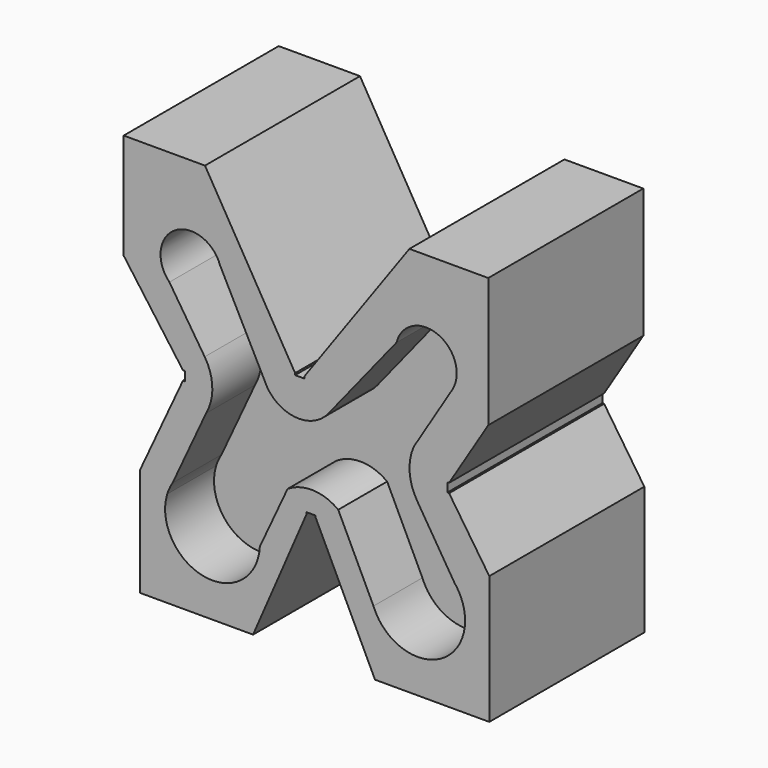
from build123d import *

# Parameters (mm, degrees)
F1_DEPTH = 40.259
F3_DEPTH = 25.4
F5_DEPTH = 25.4


with BuildPart() as f1:
    # F0 (on Front) → F1 (new body, symmetric)
    with BuildSketch(Plane.XZ):
        Polygon((0, -0.762), (0, 0), (-37.454836, 63.721383), (-71.236836, 63.721383), (-71.236836, 19.779383), (-46.608452, -14.130657), (-45.846452, -14.130657), (-45.846452, -17.940657), (-46.608452, -17.940657), (-64.46274, -56.418067), (-64.46274, -101.376067), (-17.47274, -101.376067), (4.734051, -50.098072), (4.734051, -49.336072), (8.544051, -49.336072), (8.544051, -50.098072), (33.19607, -101.376067), (80.69407, -101.376067), (80.69407, -48.036067), (63.988247, -23.151609), (63.226247, -23.151609), (63.226247, -19.341609), (63.988247, -19.341609), (80.262104, 7.029165), (80.262104, 60.877165), (47.496104, 60.877165), (3.81, 0), (3.81, -0.762), align=None)
    extrude(amount=F1_DEPTH, both=True)

    # F2 (on face) → F3 (cut)
    with BuildSketch(Plane.XZ.offset(40.259)):
        with BuildLine():
            ThreePointArc((-52.245846, 16.276482), (-38.390892, 13.469409), (-30.523199, 25.214145))
            ThreePointArc((-30.523199, 25.214145), (-30.687283, 27.249046), (-31.175296, 29.231365))
            ThreePointArc((-31.175296, 29.231365), (-49.874912, 36.032865), (-52.245846, 16.276482))
        make_face()
        with BuildLine():
            ThreePointArc((-31.175296, 29.231365), (-30.687283, 27.249046), (-30.523199, 25.214145))
            ThreePointArc((-30.523199, 25.214145), (-38.390892, 13.469409), (-52.245846, 16.276482))
            Line((-52.245846, 16.276482), (-37.573051, -6.265247))
            ThreePointArc((-37.573051, -6.265247), (-34.402313, -16.422015), (-36.996162, -26.741195))
            Line((-36.996162, -26.741195), (-50.912392, -56.731777))
            ThreePointArc((-50.912392, -56.731777), (-28.804068, -48.448298), (-14.646231, -67.34141))
            ThreePointArc((-14.646231, -67.34141), (-14.651472, -67.795631), (-14.667193, -68.249609))
            Line((-14.667193, -68.249609), (-3.134057, -43.394785))
            ThreePointArc((-3.134057, -43.394785), (7.514222, -40.45337), (17.917042, -44.17078))
            Line((17.917042, -44.17078), (32.565061, -74.639729))
            ThreePointArc((32.565061, -74.639729), (41.062727, -50.578546), (66.172654, -55.121942))
            Line((66.172654, -55.121942), (50.676871, -30.211112))
            ThreePointArc((50.676871, -30.211112), (47.597224, -20.692297), (49.331598, -10.839176))
            Line((49.331598, -10.839176), (65.190411, 14.949097))
            ThreePointArc((65.190411, 14.949097), (49.396243, 10.062519), (42.155779, 24.925563))
            Line((42.155779, 24.925563), (13.816384, -10.301067))
            ThreePointArc((13.816384, -10.301067), (0.898878, -16.153519), (-11.474751, -9.224849))
            Line((-11.474751, -9.224849), (-31.175296, 29.231365))
        make_face()
        with BuildLine():
            ThreePointArc((67.143639, 21.716436), (56.06138, 34.31298), (42.155779, 24.925563))
            ThreePointArc((42.155779, 24.925563), (49.396243, 10.062519), (65.190411, 14.949097))
            Line((65.190411, 14.949097), (65.331844, 15.179083))
            ThreePointArc((65.331844, 15.179083), (66.682311, 18.324549), (67.143639, 21.716436))
        make_face()
        with BuildLine():
            Line((-53.138839, -61.529947), (-50.912392, -56.731777))
            ThreePointArc((-50.912392, -56.731777), (-52.187514, -59.055738), (-53.138839, -61.529947))
        make_face()
        with BuildLine():
            ThreePointArc((-14.646231, -67.34141), (-28.804068, -48.448298), (-50.912392, -56.731777))
            Line((-50.912392, -56.731777), (-53.138839, -61.529947))
            ThreePointArc((-53.138839, -61.529947), (-37.718241, -86.732836), (-14.667193, -68.249609))
            ThreePointArc((-14.667193, -68.249609), (-14.651472, -67.795631), (-14.646231, -67.34141))
        make_face()
        with BuildLine():
            Line((65.331844, 15.179083), (65.190411, 14.949097))
            ThreePointArc((65.190411, 14.949097), (65.261739, 15.063714), (65.331844, 15.179083))
        make_face()
        with BuildLine():
            Line((68.871818, -59.461086), (66.172654, -55.121942))
            ThreePointArc((66.172654, -55.121942), (41.062727, -50.578546), (32.565061, -74.639729))
            ThreePointArc((32.565061, -74.639729), (54.527629, -86.95802), (70.633667, -67.601103))
            ThreePointArc((70.633667, -67.601103), (70.188163, -63.43685), (68.871818, -59.461086))
        make_face()
        with BuildLine():
            ThreePointArc((68.871818, -59.461086), (67.663637, -57.203555), (66.172654, -55.121942))
            Line((66.172654, -55.121942), (68.871818, -59.461086))
        make_face()
    extrude(amount=-F3_DEPTH, mode=Mode.SUBTRACT)

    # F4 (on face) → F5 (cut)
    with BuildSketch(Plane(origin=(0, 40.259, 0), x_dir=(-1, 0, 0), z_dir=(0, 1, 0))):
        with BuildLine():
            ThreePointArc((-65.726989, 18.3497), (-51.872034, 15.542628), (-44.004341, 27.287363))
            ThreePointArc((-44.004341, 27.287363), (-44.168425, 29.322264), (-44.656439, 31.304583))
            ThreePointArc((-44.656439, 31.304583), (-63.356054, 38.106083), (-65.726989, 18.3497))
        make_face()
        with BuildLine():
            ThreePointArc((-44.656439, 31.304583), (-44.168425, 29.322264), (-44.004341, 27.287363))
            ThreePointArc((-44.004341, 27.287363), (-51.872034, 15.542628), (-65.726989, 18.3497))
            Line((-65.726989, 18.3497), (-51.054193, -4.192029))
            ThreePointArc((-51.054193, -4.192029), (-46.106839, -17.471409), (-49.249755, -31.289525))
            Line((-49.249755, -31.289525), (-65.967989, -60.914299))
            ThreePointArc((-65.967989, -60.914299), (-43.823018, -51.54992), (-29.139468, -70.588952))
            ThreePointArc((-29.139468, -70.588952), (-29.144731, -71.044099), (-29.160516, -71.499002))
            Line((-29.160516, -71.499002), (-15.92485, -43.967853))
            ThreePointArc((-15.92485, -43.967853), (-5.553349, -41.629648), (4.695866, -44.456098))
            Line((4.695866, -44.456098), (19.922124, -74.438221))
            ThreePointArc((19.922124, -74.438221), (26.714122, -49.040464), (52.697492, -53.045686))
            Line((52.697492, -53.045686), (37.20171, -28.134856))
            ThreePointArc((37.20171, -28.134856), (34.122063, -18.616042), (35.856437, -8.762921))
            Line((35.856437, -8.762921), (52.887628, 18.931776))
            ThreePointArc((52.887628, 18.931776), (37.702376, 15.634645), (30.692658, 29.502839))
            Line((30.692658, 29.502839), (9.262503, -6.26221))
            ThreePointArc((9.262503, -6.26221), (-3.243304, -11.839034), (-15.496504, -5.727138))
            Line((-15.496504, -5.727138), (-44.656439, 31.304583))
        make_face()
        with BuildLine():
            ThreePointArc((55.863387, 27.100566), (44.369981, 39.743119), (30.692658, 29.502839))
            ThreePointArc((30.692658, 29.502839), (37.702376, 15.634645), (52.887628, 18.931776))
            Line((52.887628, 18.931776), (54.840929, 22.10807))
            ThreePointArc((54.840929, 22.10807), (55.605147, 24.552506), (55.863387, 27.100566))
        make_face()
        with BuildLine():
            ThreePointArc((-29.139468, -70.588952), (-43.823018, -51.54992), (-65.967989, -60.914299))
            ThreePointArc((-65.967989, -60.914299), (-54.264793, -89.507252), (-29.160516, -71.499002))
            ThreePointArc((-29.160516, -71.499002), (-29.144731, -71.044099), (-29.139468, -70.588952))
        make_face()
        with BuildLine():
            Line((54.840929, 22.10807), (52.887628, 18.931776))
            ThreePointArc((52.887628, 18.931776), (53.981487, 20.447844), (54.840929, 22.10807))
        make_face()
        with BuildLine():
            Line((55.396657, -57.38483), (52.697492, -53.045686))
            ThreePointArc((52.697492, -53.045686), (26.714122, -49.040464), (19.922124, -74.438221))
            ThreePointArc((19.922124, -74.438221), (42.056096, -84.669013), (57.158505, -65.524847))
            ThreePointArc((57.158505, -65.524847), (56.713002, -61.360595), (55.396657, -57.38483))
        make_face()
        with BuildLine():
            ThreePointArc((55.396657, -57.38483), (54.188476, -55.1273), (52.697492, -53.045686))
            Line((52.697492, -53.045686), (55.396657, -57.38483))
        make_face()
    extrude(amount=-F5_DEPTH, mode=Mode.SUBTRACT)


solid = f1.part
